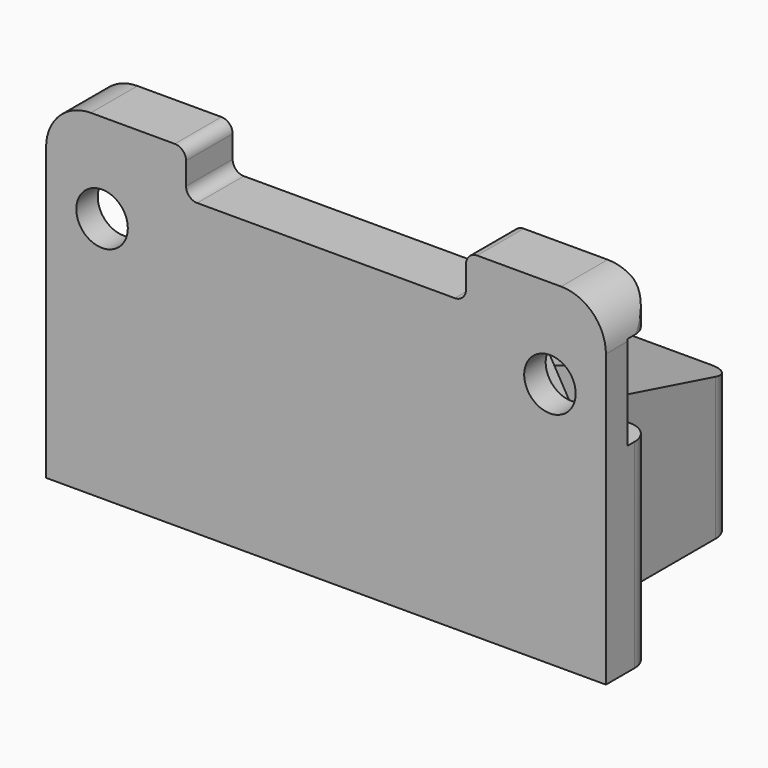
from build123d import *

# Parameters (mm, degrees)
PAD010_DEPTH    = 12.5
SKETCH018_R     = 1.4
POCKET006_DEPTH = 15.001
POCKET007_DEPTH = 2
POCKET008_DEPTH = 2.5
POCKET009_DEPTH = 15.001
SKETCH023_R     = 1.15
POCKET010_DEPTH = 12.001
POCKET011_DEPTH = 10.801
POCKET012_DEPTH = 12.001


with BuildPart() as part:
    # Sketch016 → Pad010 (new body, symmetric)
    with BuildSketch(Plane.YZ):
        Polygon((0, 0), (0, 15), (2.6, 15), (2.6, 8.6), (12, 6.1), (12, 0), align=None)
    extrude(amount=PAD010_DEPTH, both=True)

    # Sketch018 → Pocket006 (cut, through all)
    with BuildSketch(Plane.XY):
        with Locations((-4, 7)):
            Circle(SKETCH018_R)
        with Locations((4, 7)):
            Circle(SKETCH018_R)
    extrude(amount=POCKET006_DEPTH, mode=Mode.SUBTRACT)

    # Sketch019 (on DatumPlane) → Pocket007 (cut)
    with BuildSketch(Plane.XY.offset(1.6)):
        Polygon((-4, 10.002221), (-6.6, 8.501111), (-6.6, 5.498889), (-4, 3.997779), (-1.4, 5.498889), (-1.4, 8.501111), align=None)
        Polygon((4, 10.002221), (1.4, 8.501111), (1.4, 5.498889), (4, 3.997779), (6.6, 5.498889), (6.6, 8.501111), align=None)
    extrude(amount=POCKET007_DEPTH, mode=Mode.SUBTRACT)

    # Sketch020 (on DatumPlane) → Pocket008 (cut)
    with BuildSketch(Plane.XY.offset(3.6)):
        Polygon((-4, 3.997779), (-1.4, 5.498889), (-1.4, 8.501111), (-1.4, 20.501111), (-6.6, 20.501111), (-6.6, 8.501111), (-6.6, 5.498889), align=None)
        Polygon((4, 3.997779), (6.6, 5.498889), (6.6, 8.501111), (6.6, 20.501111), (1.4, 20.501111), (1.4, 8.501111), (1.4, 5.498889), align=None)
    extrude(amount=POCKET008_DEPTH, mode=Mode.SUBTRACT)

    # Sketch021 → Pocket009 (cut, through all)
    with BuildSketch(Plane.XY):
        with BuildLine():
            Line((-12.5, 0), (-12.5, 1.6))
            ThreePointArc((-11.5, 2.6), (-12.207107, 2.307107), (-12.5, 1.6))
            Line((-11.5, 2.6), (-9.6, 2.6))
            ThreePointArc((-9.6, 2.6), (-8.892893, 2.892893), (-8.6, 3.6))
            Line((-8.6, 3.6), (-8.6, 11))
            ThreePointArc((-7.6, 12), (-8.307107, 11.707107), (-8.6, 11))
            Line((-7.6, 12), (7.6, 12))
            ThreePointArc((8.6, 11), (8.307107, 11.707107), (7.6, 12))
            Line((8.6, 11), (8.6, 3.6))
            ThreePointArc((8.6, 3.6), (8.892893, 2.892893), (9.6, 2.6))
            Line((9.6, 2.6), (11.5, 2.6))
            ThreePointArc((12.5, 1.6), (12.207107, 2.307107), (11.5, 2.6))
            Line((12.5, 1.6), (12.5, 0))
            Line((12.5, 0), (22.5, 0))
            Line((22.5, 0), (22.5, 22))
            Line((22.5, 22), (-22.5, 22))
            Line((-22.5, 22), (-22.5, 0))
            Line((-12.5, 0), (-22.5, 0))
        make_face()
    extrude(amount=POCKET009_DEPTH, mode=Mode.SUBTRACT)

    # Sketch023 → Pocket010 (cut, through all)
    with BuildSketch(Plane.XZ):
        with Locations((-10, 11)):
            Circle(SKETCH023_R)
        with Locations((10, 11)):
            Circle(SKETCH023_R)
    extrude(amount=-POCKET010_DEPTH, mode=Mode.SUBTRACT)

    # Sketch024 (on DatumPlane) → Pocket011 (cut, through all)
    with BuildSketch(Plane.XZ.offset(-1.2)):
        Polygon((7.575129, 11), (8.787564, 8.9), (11.212436, 8.9), (21.212436, 8.9), (21.212436, 13.1), (11.212436, 13.1), (8.787564, 13.1), align=None)
        Polygon((-7.575129, 11), (-8.787564, 13.1), (-11.212436, 13.1), (-21.212436, 13.1), (-21.212436, 8.9), (-11.212436, 8.9), (-8.787564, 8.9), align=None)
    extrude(amount=-POCKET011_DEPTH, mode=Mode.SUBTRACT)

    # Sketch025 → Pocket012 (cut, through all)
    with BuildSketch(Plane.XZ):
        with BuildLine():
            Line((-12.5, 0), (-12.5, 13))
            ThreePointArc((-10.5, 15), (-11.914214, 14.414214), (-12.5, 13))
            Line((-6.75, 15), (-10.5, 15))
            ThreePointArc((-6.25, 14.5), (-6.396447, 14.853553), (-6.75, 15))
            Line((-6.25, 13.5), (-6.25, 14.5))
            ThreePointArc((-6.25, 13.5), (-6.103553, 13.146447), (-5.75, 13))
            Line((-5.75, 13), (5.75, 13))
            ThreePointArc((5.75, 13), (6.103553, 13.146447), (6.25, 13.5))
            Line((6.25, 13.5), (6.25, 14.5))
            ThreePointArc((6.75, 15), (6.396447, 14.853553), (6.25, 14.5))
            Line((6.75, 15), (10.5, 15))
            ThreePointArc((12.5, 13), (11.914214, 14.414214), (10.5, 15))
            Line((12.5, 13), (12.5, 0))
            Line((12.5, 0), (17.5, 0))
            Line((17.5, 0), (17.5, 20))
            Line((17.5, 20), (-17.5, 20))
            Line((-17.5, 20), (-17.5, 0))
            Line((-17.5, 0), (-12.5, 0))
        make_face()
    extrude(amount=-POCKET012_DEPTH, mode=Mode.SUBTRACT)


solid = part.part
